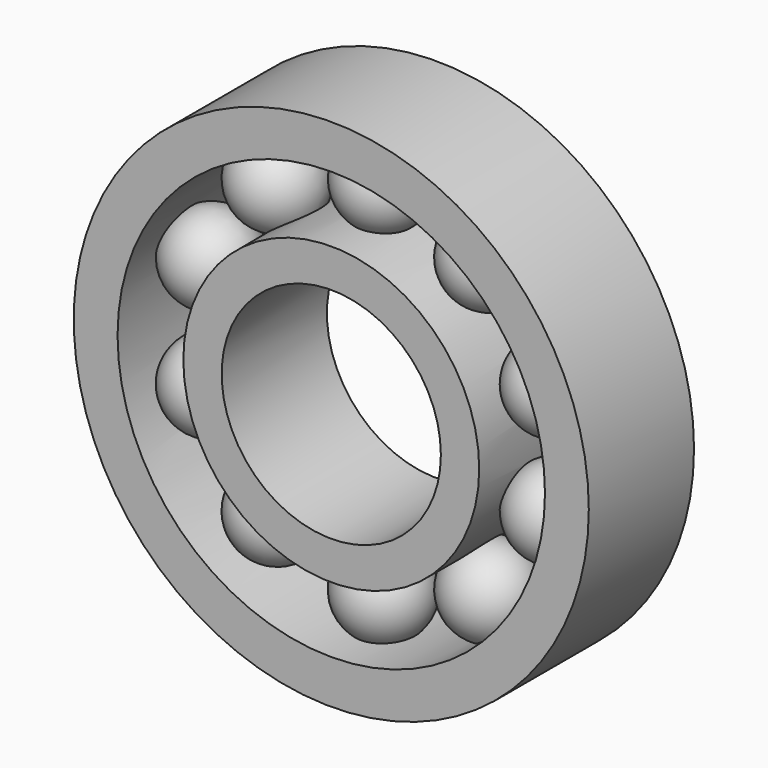
from build123d import *

# Parameters (mm, degrees)
F0_R     = 23.5
F0_R_2   = 19.5
F2_DEPTH = 12
F0_R_3   = 13.5
F0_R_4   = 10
F3_DEPTH = 12
F6_COUNT = 10


with BuildPart() as f2:
    # F0 (on Front) → F2 (new body)
    with BuildSketch(Plane.XZ):
        Circle(F0_R)
        Circle(F0_R_2, mode=Mode.SUBTRACT)
    extrude(amount=-F2_DEPTH)



with BuildPart() as f3:
    # F0 (on Front) → F3 (new body)
    with BuildSketch(Plane.XZ):
        Circle(F0_R_3)
        Circle(F0_R_4, mode=Mode.SUBTRACT)
    extrude(amount=-F3_DEPTH)


with BuildPart() as f2_1:
    add(f2.part)

    add(f3.part)  # F5 merges F3
    # F4 (on offset) → F5 (revolve)
    with BuildSketch(Plane.XZ.offset(-6)):
        with BuildLine():
            Line((0, 20.5), (0, 12.5))
            ThreePointArc((0, 12.5), (4, 16.5), (0, 20.5))
        make_face()
    revolve(axis=Axis((0, 6, 16.5), (0, 0, -1)))

    # F6: F2 ×10 about axis
    f6_axis = Axis((0, 0, 0), (0, -1, 0))


with BuildPart() as f2_2:
    add(f2_1.part)
    for i in range(1, F6_COUNT):
        add(f2_1.part.rotate(f6_axis, i * 360 / F6_COUNT))


solid = f2_2.part
